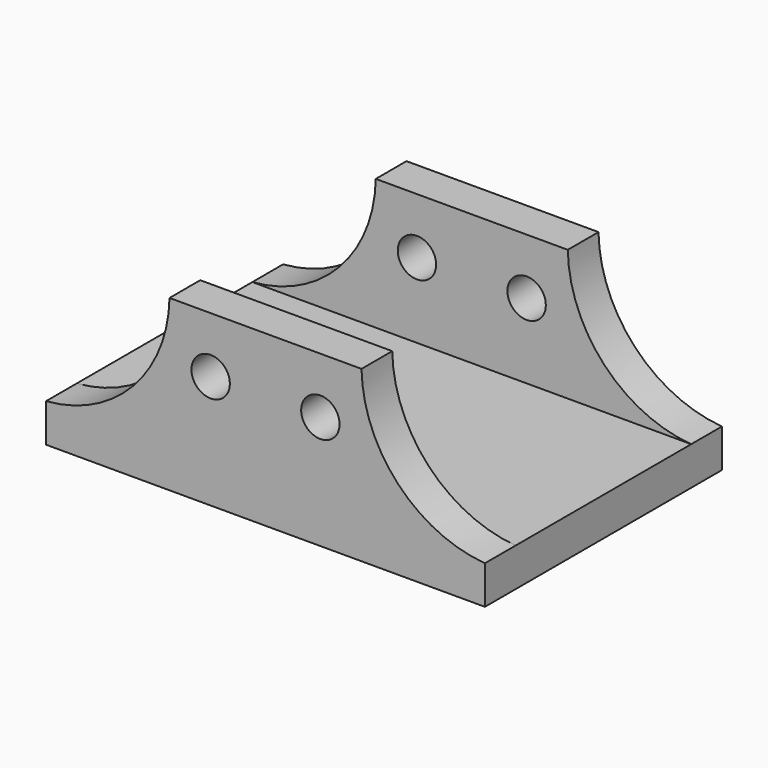
from build123d import *

# Parameters (mm, degrees)
F0_W     = 80
F0_H     = 54
F1_DEPTH = 7
F3_DEPTH = 7
F5_R     = 3.5
F6_DEPTH = 54.001


with BuildPart() as f1:
    # F0 (on Top) → F1 (new body)
    with BuildSketch(Plane.XY):
        Rectangle(F0_W, F0_H)
    extrude(amount=F1_DEPTH)

    # F2 (on face) → F3 (join)
    with BuildSketch(Plane.XZ.offset(27)):
        with BuildLine():
            Line((17.5, 30.876799), (-17.5, 30.876799))
            ThreePointArc((-17.5, 30.876799), (-24.137327, 14.591705), (-40, 7))
            Line((-40, 7), (40, 7))
            ThreePointArc((40, 7), (24.137307, 14.591686), (17.5, 30.876799))
        make_face()
    extrude(amount=-F3_DEPTH)

    # F4: F1 across plane


with BuildPart() as f1_1:
    add(f1.part)
    add(f1.part.mirror(Plane.XZ))

    # F5 (on face) → F6 (cut, through all)
    with BuildSketch(Plane.XZ.offset(27)):
        with Locations((-10, 20.678958)):
            Circle(F5_R)
        with Locations((10, 20.678958)):
            Circle(F5_R)
    extrude(amount=-F6_DEPTH, mode=Mode.SUBTRACT)


solid = f1_1.part
